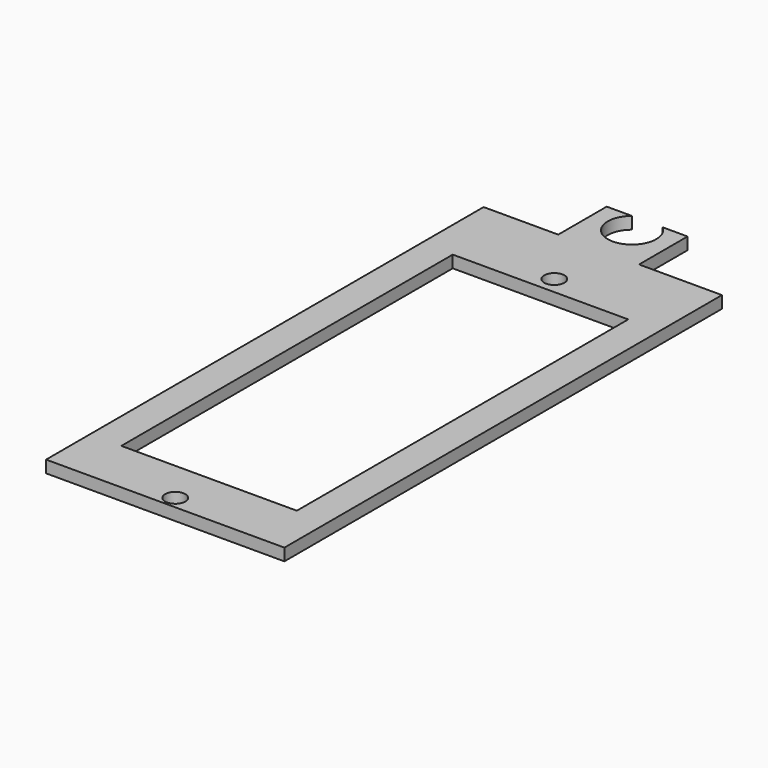
from build123d import *

# Parameters (mm, degrees)
F0_W     = 43.4223142958
F0_H     = 102.4999973916
F1_DEPTH = 3
F2_D     = 12
F2_DEPTH = 50
F2_TIP   = 3.6051637142
F3_D     = 5
F3_DEPTH = 50
F3_TIP   = 1.5021515476


with BuildPart() as f1:
    # F0 (on Top) → F1 (new body)
    with BuildSketch(Plane.XY):
        Polygon((-29.4820813204, 57.3426440605), (-29.4820813204, -77.9801009848), (29.4820813204, -77.9801009848), (29.4820813204, 57.3426440605), (8.9785616139, 57.3426440605), (8.9785616139, 72.3426440605), (-11.0214383861, 72.3426440605), (-11.0214383861, 57.3426440605), align=None)
        with Locations((0, -13.1670495591)):
            Rectangle(F0_W, F0_H, mode=Mode.SUBTRACT)
    extrude(amount=F1_DEPTH)

    # F2
    with Locations(Plane(origin=(0, 0, 0), x_dir=(1, 0, 0), z_dir=(0, 0, -1))):
        with Locations((-1.0214383861, -67.6703378558)):
            Hole(F2_D / 2, depth=F2_DEPTH)
            with Locations((0, 0, -(F2_DEPTH + F2_TIP / 2))):  # 118° drill point
                Cone(0, F2_D / 2, F2_TIP, mode=Mode.SUBTRACT)

    # F3
    with Locations(Plane(origin=(0, 0, 0), x_dir=(1, 0, 0), z_dir=(0, 0, -1))):
        with Locations((0, -42.3597060144), (0, 74.8838037252)):
            Hole(F3_D / 2, depth=F3_DEPTH)
            with Locations((0, 0, -(F3_DEPTH + F3_TIP / 2))):  # 118° drill point
                Cone(0, F3_D / 2, F3_TIP, mode=Mode.SUBTRACT)


solid = f1.part
